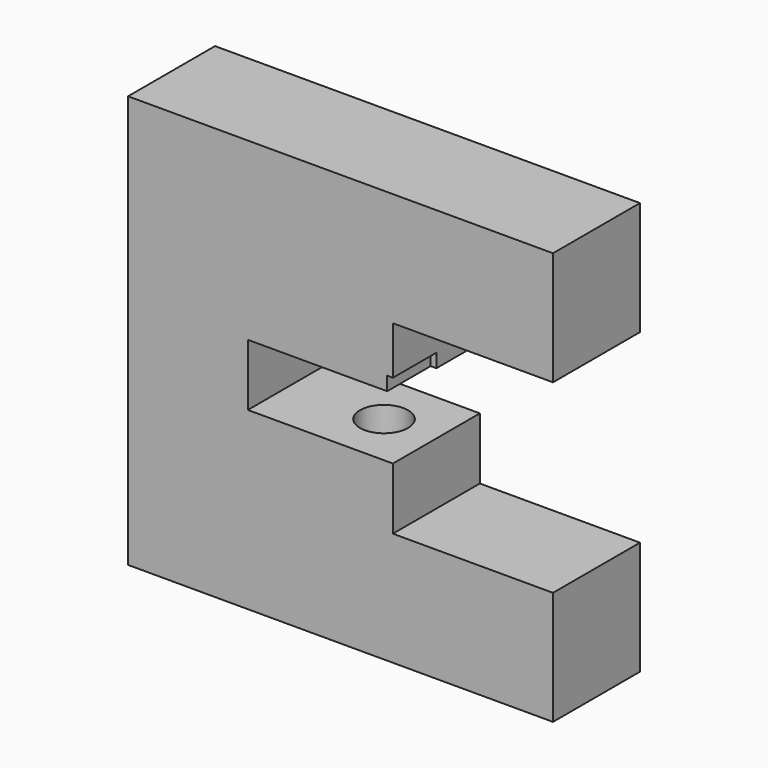
from build123d import *

# Parameters (mm, degrees)
F0_W     = 873.76
F0_H     = 848.36
F1_DEPTH = 223.52
F3_DEPTH = 254
F5_D     = 75
F5_DEPTH = 675.64
F5_TIP   = 22.5322732135
F7_W     = 22.5396603346
F7_H     = 45.0793132186
F8_DEPTH = 111.76


with BuildPart() as f1:
    # F0 (on Front) → F1 (new body)
    with BuildSketch(Plane.XZ):
        Rectangle(F0_W, F0_H)
    extrude(amount=F1_DEPTH)

    # F2 (on face) → F3 (cut)
    with BuildSketch(Plane.XZ.offset(223.52)):
        Polygon((107.696, 85.352614522), (107.696, 63.5), (-190.5, 63.5), (-190.5, 48.8914474845), (-190.5, 0), (-190.5, -48.8914474845), (-190.5, -63.5), (107.696, -63.5), (107.696, -85.352614522), (107.696, -181.2319755554), (107.696, -190.5), (716.4556980133, -190.5), (716.4556980133, 190.5), (430.53, 190.5), (107.696, 190.5), (107.696, 181.2319755554), align=None)
    extrude(amount=-F3_DEPTH, mode=Mode.SUBTRACT)

    # F5
    with Locations(Plane(origin=(0, 0, -424.18), x_dir=(1, 0, 0), z_dir=(0, 0, -1))):
        with Locations((0, 111.76)):
            Hole(F5_D / 2, depth=F5_DEPTH)
            with Locations((0, 0, -(F5_DEPTH + F5_TIP / 2))):  # 118° drill point
                Cone(0, F5_D / 2, F5_TIP, mode=Mode.SUBTRACT)

    # F7 (on face) → F8 (cut)
    with BuildSketch(Plane.XZ.offset(223.52)):
        with Locations((107.1918830276, 69.2144595087)):
            Rectangle(F7_W, F7_H)
    extrude(amount=-F8_DEPTH, mode=Mode.SUBTRACT)

    # F9 (on offset) → F10 (revolve, cut)
    with BuildSketch(Plane.XZ.offset(111.76)):
        Polygon((8.588981392, -428.1635656953), (49.5, -428.1635656953), (49.5, 249.0316255649), (37.7547182143, 251.635491848), (18.8773591071, 251.635491848), align=None)
    revolve(axis=Axis((0, -111.76, 257.2192468215), (0, 0, 1)), mode=Mode.SUBTRACT)


solid = f1.part
